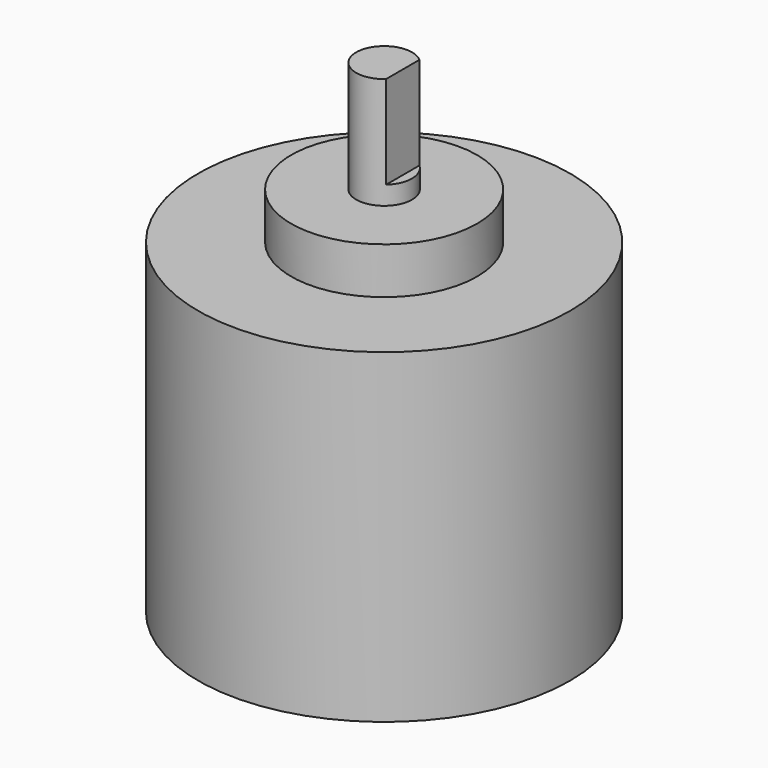
from build123d import *

# Parameters (mm, degrees)
BOX_W             = 10
BOX_H             = 10
BOX_DEPTH         = 10
CYLINDER001_R     = 10
CYLINDER001_DEPTH = 5
CYLINDER002_R     = 3
CYLINDER002_DEPTH = 12
CYLINDER_R        = 20
CYLINDER_DEPTH    = 35


with BuildPart() as cube:
    # Box → Box (new body)
    with BuildSketch(Plane(origin=(2, -5, 7), x_dir=(1, 0, 0), z_dir=(0, 0, 1))):
        with Locations((5, 5)):
            Rectangle(BOX_W, BOX_H)
    extrude(amount=BOX_DEPTH)


with BuildPart() as cylinder001:
    # Cylinder001 → Cylinder001 (new body)
    with BuildSketch(Plane.XY):
        Circle(CYLINDER001_R)
    extrude(amount=CYLINDER001_DEPTH)


with BuildPart() as cylinder002:
    # Cylinder002 → Cylinder002 (new body)
    with BuildSketch(Plane.XY.offset(5)):
        Circle(CYLINDER002_R)
    extrude(amount=CYLINDER002_DEPTH)


with BuildPart() as cut:
    # Cylinder → Cylinder (new body)
    with BuildSketch(Plane.XY.offset(-35)):
        Circle(CYLINDER_R)
    extrude(amount=CYLINDER_DEPTH)

    # Fusion: union Cylinder001, Cylinder002
    add(cylinder001.part)
    add(cylinder002.part)

    # Cut: cut Cube
    add(cube.part, mode=Mode.SUBTRACT)


solid = cut.part
